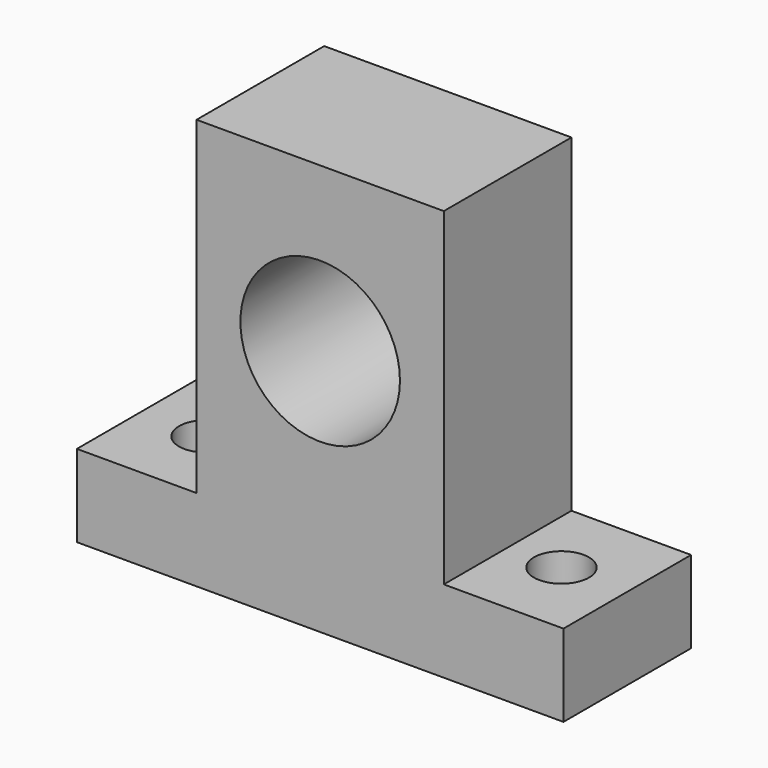
from build123d import *

# Parameters (mm, degrees)
F1_DEPTH = 10
F2_R     = 10
F3_DEPTH = 10
F4_R     = 3.45
F5_DEPTH = 10.3


with BuildPart() as f1:
    # F0 (on Front) → F1 (new body, symmetric)
    with BuildSketch(Plane.XZ):
        Polygon((15.5, 51.5), (-15.5, 51.5), (-15.5, 10.3), (-30.5, 10.3), (-30.5, 0), (30.5, 0), (30.5, 10.3), (15.5, 10.3), align=None)
    extrude(amount=F1_DEPTH, both=True)

    # F2 (on Front) → F3 (cut, symmetric)
    with BuildSketch(Plane.XZ):
        with Locations((0, 31)):
            Circle(F2_R)
    extrude(amount=F3_DEPTH, both=True, mode=Mode.SUBTRACT)

    # F4 (on Top) → F5 (cut, through all)
    with BuildSketch(Plane.XY):
        with Locations((-22.25, 0)):
            Circle(F4_R)
        with Locations((22.25, 0)):
            Circle(F4_R)
    extrude(amount=F5_DEPTH, mode=Mode.SUBTRACT)


solid = f1.part
